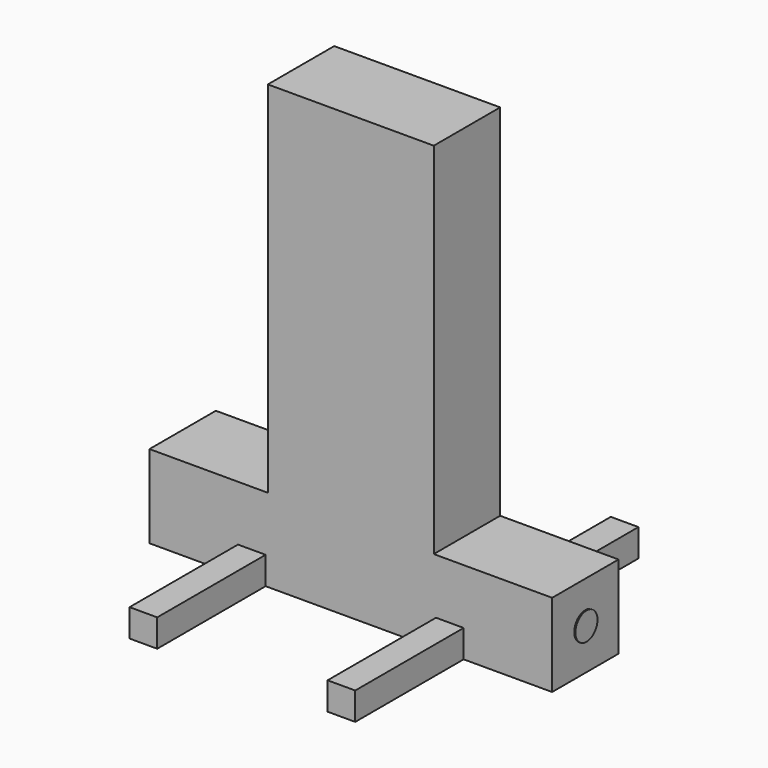
from build123d import *

# Parameters (mm, degrees)
F0_W      = 19.05
F0_H      = 19.05
F1_DEPTH  = 46.228
F2_W      = 3.175
F2_H      = 6.35
F3_DEPTH  = 31.115
F4_W      = 3.175
F4_H      = 6.35
F5_DEPTH  = 31.115
F6_W      = 19.05
F6_H      = 19.05
F7_DEPTH  = 82.55
F8_R      = 3.175
F9_DEPTH  = 0.254
F10_R     = 3.175
F11_DEPTH = 0.254


with BuildPart() as f1:
    # F0 (on Right) → F1 (new body, symmetric)
    with BuildSketch(Plane.YZ):
        Rectangle(F0_W, F0_H)
    extrude(amount=F1_DEPTH, both=True)

    # F2 (on face) → F3 (join)
    with BuildSketch(Plane(origin=(0, 9.525, 0), x_dir=(-1, 0, 0), z_dir=(0, 1, 0))):
        with Locations((-21.1455, -6.35)):
            Rectangle(F2_W, F2_H)
        with Locations((-24.3205, -6.35)):
            Rectangle(F2_W, F2_H)
        with Locations((24.3205, -6.35)):
            Rectangle(F2_W, F2_H)
        with Locations((21.1455, -6.35)):
            Rectangle(F2_W, F2_H)
    extrude(amount=F3_DEPTH)

    # F4 (on face) → F5 (join)
    with BuildSketch(Plane.XZ.offset(9.525)):
        with Locations((-21.1455, -6.35)):
            Rectangle(F4_W, F4_H)
        with Locations((-24.3205, -6.35)):
            Rectangle(F4_W, F4_H)
        with Locations((24.3205, -6.35)):
            Rectangle(F4_W, F4_H)
        with Locations((21.1455, -6.35)):
            Rectangle(F4_W, F4_H)
    extrude(amount=F5_DEPTH)

    # F6 (on face) → F7 (join)
    with BuildSketch(Plane.XY.offset(9.525)):
        with Locations((9.525, 0)):
            Rectangle(F6_W, F6_H)
        with Locations((-9.525, 0)):
            Rectangle(F6_W, F6_H)
    extrude(amount=F7_DEPTH)

    # F8 (on face) → F9 (join)
    with BuildSketch(Plane(origin=(-46.228, 0, 0), x_dir=(0, -1, 0), z_dir=(-1, 0, 0))):
        Circle(F8_R)
    extrude(amount=F9_DEPTH)

    # F10 (on face) → F11 (join)
    with BuildSketch(Plane.YZ.offset(46.228)):
        Circle(F10_R)
    extrude(amount=F11_DEPTH)


solid = f1.part
